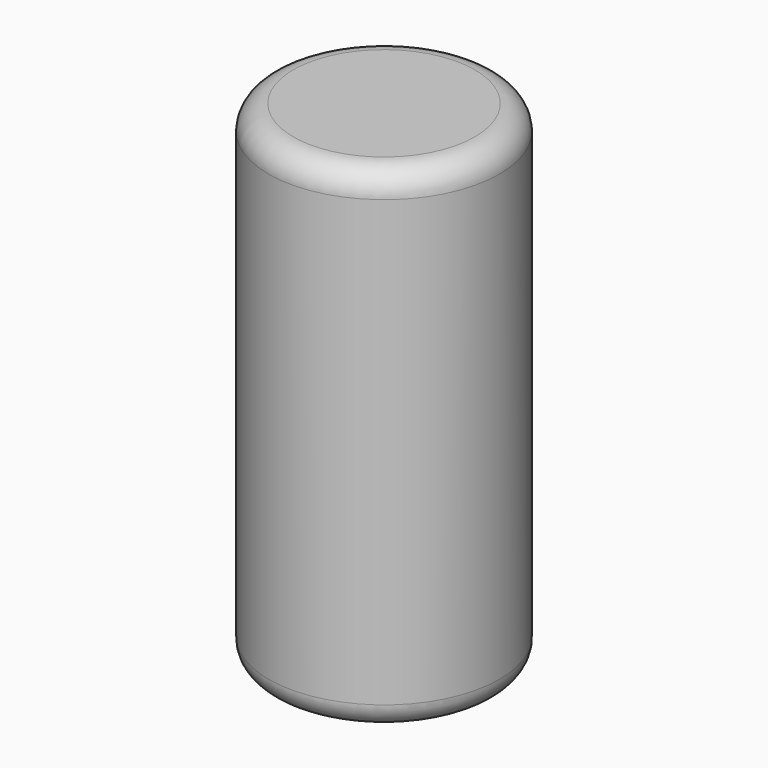
from build123d import *

# Parameters (mm, degrees)
SKETCH_R      = 9.35
EXTRUDE_DEPTH = 40
FILLET_R      = 2


with BuildPart() as part:
    # Sketch → Extrude (new body)
    with BuildSketch(Plane.XY):
        Circle(SKETCH_R)
    extrude(amount=EXTRUDE_DEPTH)

    # Fillet
    fillet_edges = [part.edges().sort_by_distance(p)[0] for p in [
        (-9.35, 0, 0),
        (-9.35, 0, 40),
    ]]
    fillet(fillet_edges, radius=FILLET_R)


solid = part.part
